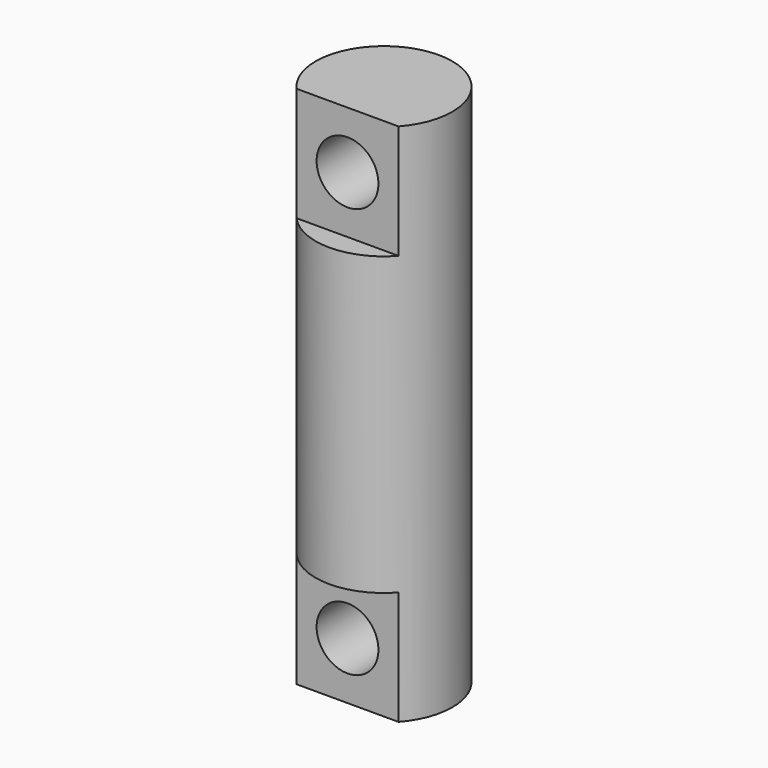
from build123d import *

# Parameters (mm, degrees)
F0_R     = 4.7625
F1_DEPTH = 36.5125
F2_W     = 7.0995158286
F2_H     = 1.5875
F3_DEPTH = 7.9375
F4_W     = 7.0995158286
F4_H     = 1.5875
F5_DEPTH = 7.9375
F6_R     = 2.15265
F7_DEPTH = 8.9375001002


with BuildPart() as f1:
    # F0 (on Top) → F1 (new body)
    with BuildSketch(Plane.XY):
        Circle(F0_R)
    extrude(amount=F1_DEPTH)

    # F2 (on face) → F3 (cut)
    with BuildSketch(Plane.XY.offset(36.5125)):
        with Locations((0, -3.96875)):
            Rectangle(F2_W, F2_H)
    extrude(amount=-F3_DEPTH, mode=Mode.SUBTRACT)

    # F4 (on face) → F5 (cut)
    with BuildSketch(Plane(origin=(0, 0, 0), x_dir=(1, 0, 0), z_dir=(0, 0, -1))):
        with Locations((0, 3.96875)):
            Rectangle(F4_W, F4_H)
    extrude(amount=-F5_DEPTH, mode=Mode.SUBTRACT)

    # F6 (on face) → F7 (cut, up to face)
    with BuildSketch(Plane.XZ.offset(3.175)):
        with Locations((0, 32.54375)):
            Circle(F6_R)
        with Locations((0, 3.96875)):
            Circle(F6_R)
    extrude(amount=-F7_DEPTH, mode=Mode.SUBTRACT)


solid = f1.part
